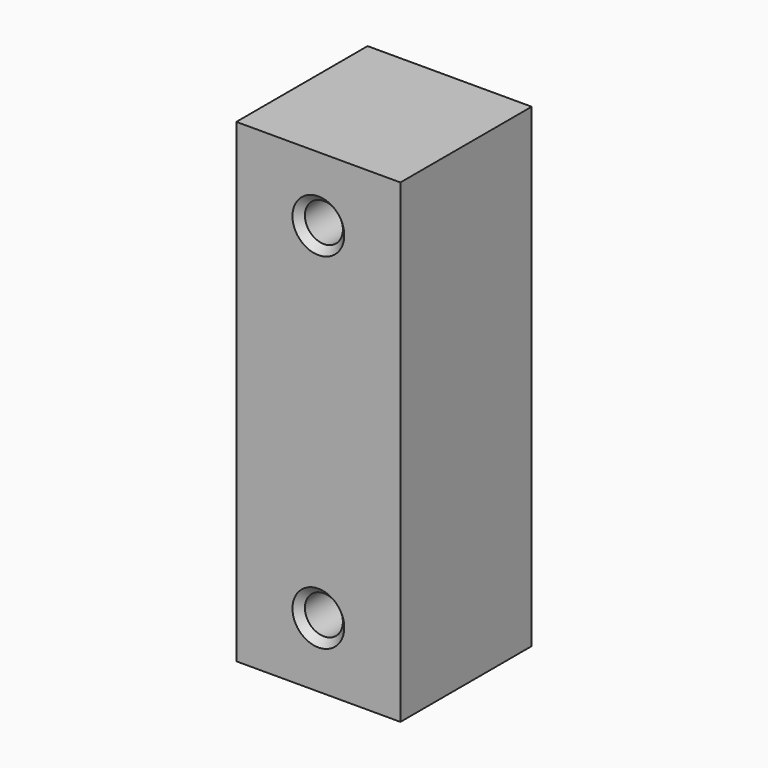
from build123d import *

# Parameters (mm, degrees)
F0_W           = 19
F0_H           = 55
F1_DEPTH       = 19
F3_D           = 4.4
F3_DEPTH       = 10
F3_CSINK_D     = 6
F3_CSINK_ANGLE = 90
F3_TIP         = 1.3218933619
F5_D           = 6.6
F5_DEPTH       = 10
F5_CSINK_D     = 7
F5_CSINK_ANGLE = 90
F5_TIP         = 1.9828400428


with BuildPart() as f1:
    # F0 (on Front) → F1 (new body)
    with BuildSketch(Plane.XZ):
        with Locations((9.5, -27.5)):
            Rectangle(F0_W, F0_H)
    extrude(amount=F1_DEPTH)

    # F3
    with Locations(Plane.XZ.offset(19)):
        with Locations((9.5, -7.5), (9.5, -47.5)):
            CounterSinkHole(F3_D / 2, F3_CSINK_D / 2, depth=F3_DEPTH, counter_sink_angle=F3_CSINK_ANGLE)
            with Locations((0, 0, -(F3_DEPTH + F3_TIP / 2))):  # 118° drill point
                Cone(0, F3_D / 2, F3_TIP, mode=Mode.SUBTRACT)

    # F5
    with Locations(Plane(origin=(0, 0, 0), x_dir=(-1, 0, 0), z_dir=(0, 1, 0))):
        with Locations((-9.5, -15), (-9.5, -40)):
            CounterSinkHole(F5_D / 2, F5_CSINK_D / 2, depth=F5_DEPTH, counter_sink_angle=F5_CSINK_ANGLE)
            with Locations((0, 0, -(F5_DEPTH + F5_TIP / 2))):  # 118° drill point
                Cone(0, F5_D / 2, F5_TIP, mode=Mode.SUBTRACT)


solid = f1.part
